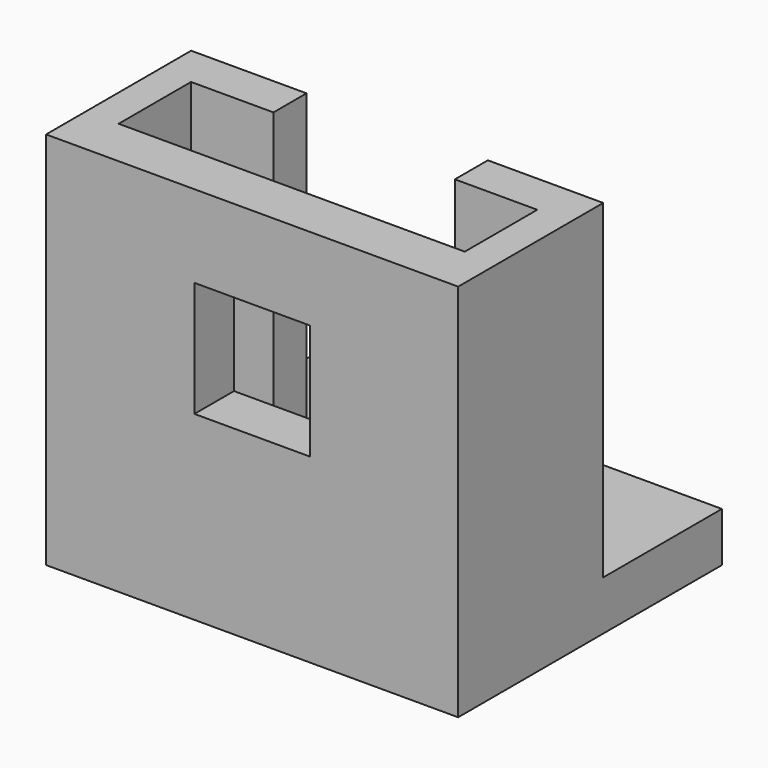
from build123d import *

# Parameters (mm, degrees)
F0_W      = 31.75
F0_H      = 25.4
F0_R      = 3.175
F1_DEPTH  = 3.81
F2_W      = 31.75
F2_H      = 3.81
F3_DEPTH  = 25.4
F4_W      = 2.54
F4_H      = 25.4
F5_DEPTH  = 10.16
F4_W_2    = 8.89
F4_H_2    = 8.89
F6_DEPTH  = 25.4
F8_W      = 3.175
F8_H      = 25.4
F9_DEPTH  = 6.35
F7_W      = 3.18363
F7_H      = 25.4
F10_DEPTH = 6.35


with BuildPart() as f1:
    # F0 (on Top) → F1 (new body)
    with BuildSketch(Plane.XY):
        with Locations((-11.662145, 29.340504)):
            Rectangle(F0_W, F0_H)
        with Locations((-11.662145, 31.880504)):
            Circle(F0_R, mode=Mode.SUBTRACT)
    extrude(amount=F1_DEPTH)

    # F2 (on face) → F3 (join)
    with BuildSketch(Plane.XY.offset(3.81)):
        with Locations((-11.662145, 18.545504)):
            Rectangle(F2_W, F2_H)
    extrude(amount=F3_DEPTH)

    # F4 (on face) → F5 (join)
    with BuildSketch(Plane(origin=(0, 20.450504, 0), x_dir=(-1, 0, 0), z_dir=(0, 1, 0))):
        with Locations((-2.942855, 16.51)):
            Rectangle(F4_W, F4_H)
        with Locations((26.267145, 16.51)):
            Rectangle(F4_W, F4_H)
    extrude(amount=F5_DEPTH)

    # F4 (on face) → F6 (cut)
    with BuildSketch(Plane(origin=(0, 20.450504, 0), x_dir=(-1, 0, 0), z_dir=(0, 1, 0))):
        with Locations((11.662145, 18.415)):
            Rectangle(F4_W_2, F4_H_2)
    extrude(amount=-F6_DEPTH, mode=Mode.SUBTRACT)

    # F8 (on face) → F9 (join)
    with BuildSketch(Plane(origin=(1.672855, 0, 0), x_dir=(0, -1, 0), z_dir=(-1, 0, 0))):
        with Locations((-29.023004, 16.51)):
            Rectangle(F8_W, F8_H)
    extrude(amount=F9_DEPTH)

    # F7 (on face) → F10 (join)
    with BuildSketch(Plane.YZ.offset(-24.997145)):
        with Locations((29.018689, 16.51)):
            Rectangle(F7_W, F7_H)
    extrude(amount=F10_DEPTH)


solid = f1.part
